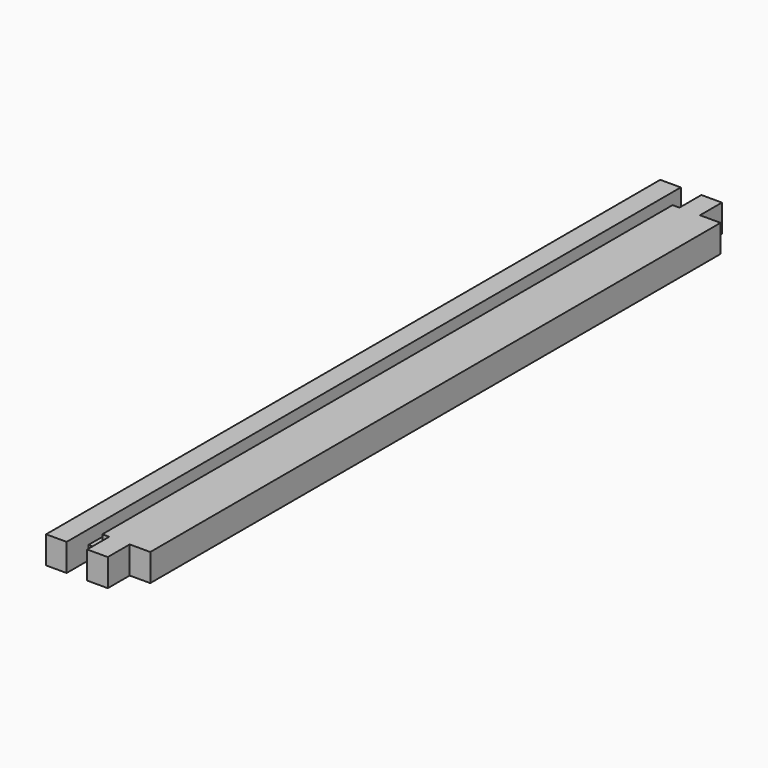
from build123d import *

# Parameters (mm, degrees)
F0_W     = 38.1
F0_H     = 12.7
F1_DEPTH = 355.6
F2_W     = 6.35
F2_H     = 6.35
F3_DEPTH = 355.601
F4_W     = 9.525
F4_H     = 12.7
F5_DEPTH = 12.701


with BuildPart() as f1:
    # F0 (on Front) → F1 (new body)
    with BuildSketch(Plane.XZ):
        with Locations((19.05, 6.35)):
            Rectangle(F0_W, F0_H)
    extrude(amount=F1_DEPTH)

    # F2 (on face) → F3 (cut, through all)
    with BuildSketch(Plane.XZ.offset(355.6)):
        with Locations((12.7, 9.525)):
            Rectangle(F2_W, F2_H)
    extrude(amount=-F3_DEPTH, mode=Mode.SUBTRACT)

    # F4 (on face) → F5 (cut, through all)
    with BuildSketch(Plane(origin=(0, 0, 0), x_dir=(1, 0, 0), z_dir=(0, 0, -1))):
        with Locations((33.3375, 349.25)):
            Rectangle(F4_W, F4_H)
        with Locations((14.2875, 349.25)):
            Rectangle(F4_W, F4_H)
        with Locations((33.3375, 6.35)):
            Rectangle(F4_W, F4_H)
        with Locations((14.2875, 6.35)):
            Rectangle(F4_W, F4_H)
    extrude(amount=-F5_DEPTH, mode=Mode.SUBTRACT)


solid = f1.part
